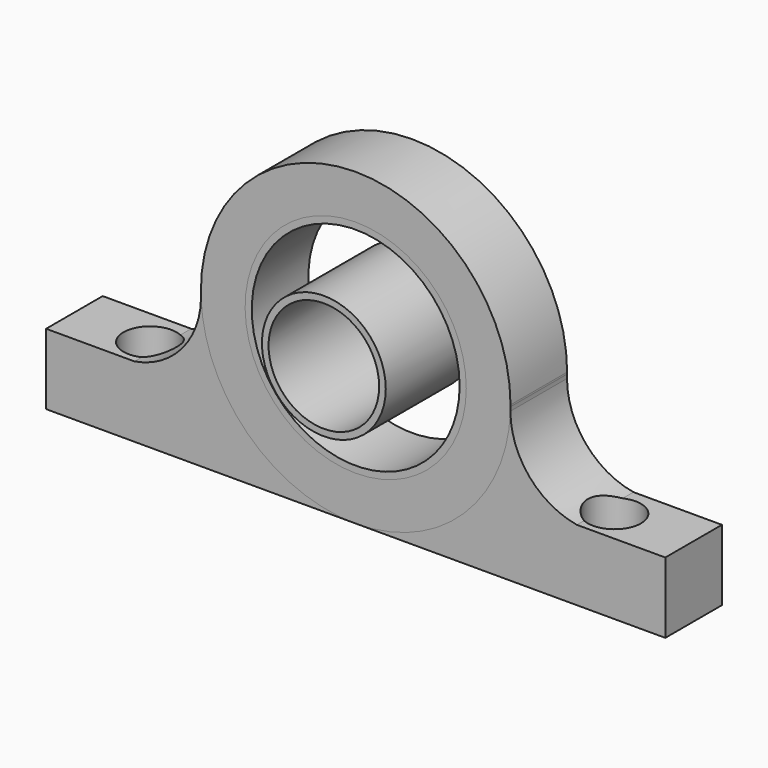
from build123d import *

# Parameters (mm, degrees)
F1_DEPTH = 16
F2_DEPTH = 16
F3_DEPTH = 16
F0_R     = 14
F0_R_2   = 12.5
F4_DEPTH = 25
F5_R     = 6
F6_DEPTH = 70.001


with BuildPart() as f1:
    # F0 (on Front) → F1 (new body)
    with BuildSketch(Plane.XZ):
        with BuildLine():
            ThreePointArc((29.3938769134, 8), (16.7332005307, -3.7408522979), (0, -8))
            Line((0, -8), (70, -8))
            Line((70, -8), (70, 8))
            Line((70, 8), (50, 8))
            Line((50, 8), (29.3938769134, 8))
        make_face()
        with BuildLine():
            ThreePointArc((34.976979378, 25.7307822924), (33.3840822114, 16.4879566733), (29.3938769134, 8))
            Line((29.3938769134, 8), (50, 8))
            ThreePointArc((50, 8), (39.2436746706, 14.1161090146), (34.976979378, 25.7307822924))
        make_face()
    extrude(amount=F1_DEPTH)


with BuildPart() as f1b:
    # F0 (on Front) → F1, piece 2 (new body)
    with BuildSketch(Plane.XZ):
        with BuildLine():
            Line((-70, 8), (-70, -8))
            Line((-70, -8), (0, -8))
            ThreePointArc((0, -8), (-16.7332005307, -3.7408522979), (-29.3938769134, 8))
            Line((-29.3938769134, 8), (-50, 8))
            Line((-50, 8), (-70, 8))
        make_face()
        with BuildLine():
            Line((-50, 8), (-29.3938769134, 8))
            ThreePointArc((-29.3938769134, 8), (-33.3535495136, 16.391478197), (-34.9690553288, 25.5285485367))
            ThreePointArc((-34.9690553288, 25.5285485367), (-39.303522738, 14.0365236535), (-50, 8))
        make_face()
    extrude(amount=F1_DEPTH)


with BuildPart() as f2:
    # F0 (on Front) → F2 (new body)
    with BuildSketch(Plane.XZ):
        with BuildLine():
            ThreePointArc((-29.3938769134, 8), (-16.7332005307, -3.7408522979), (0, -8))
            ThreePointArc((0, -8), (16.7332005307, -3.7408522979), (29.3938769134, 8))
            Line((29.3938769134, 8), (16.2480768093, 8))
            ThreePointArc((16.2480768093, 8), (0, 2), (-16.2480768093, 8))
            Line((-16.2480768093, 8), (-29.3938769134, 8))
        make_face()
        with BuildLine():
            ThreePointArc((-34.9690553288, 25.5285485367), (-33.3535495136, 16.391478197), (-29.3938769134, 8))
            Line((-29.3938769134, 8), (-16.2480768093, 8))
            ThreePointArc((-16.2480768093, 8), (-10.4593995948, 49.7068483087), (25, 27))
            ThreePointArc((25, 27), (22.7068483087, 16.5406004052), (16.2480768093, 8))
            Line((16.2480768093, 8), (29.3938769134, 8))
            ThreePointArc((29.3938769134, 8), (33.3840822114, 16.4879566733), (34.976979378, 25.7307822924))
            ThreePointArc((34.976979378, 25.7307822924), (34.9819582811, 26.1759932133), (34.9979473276, 26.6209447882))
            ThreePointArc((34.9979473276, 26.6209447882), (34.9994868281, 26.8104696152), (35, 27))
            ThreePointArc((35, 27), (-0.0874511362, 61.999890747), (-34.9995629885, 26.8250982735))
            ThreePointArc((-34.9995629885, 26.8250982735), (-34.9726282389, 26.1770982557), (-34.9690553288, 25.5285485367))
        make_face()
    extrude(amount=F2_DEPTH)


with BuildPart() as f3:
    # F0 (on Front) → F3 (new body)
    with BuildSketch(Plane.XZ):
        with BuildLine():
            ThreePointArc((25, 27), (-10.4593995948, 49.7068483087), (-16.2480768093, 8))
            Line((-16.2480768093, 8), (-13.8293166859, 8))
            ThreePointArc((-13.8293166859, 8), (-10.6597621428, 47.9432440434), (23.5, 27))
            ThreePointArc((23.5, 27), (20.9432440434, 16.3402378572), (13.8293166859, 8))
            Line((13.8293166859, 8), (16.2480768093, 8))
            ThreePointArc((16.2480768093, 8), (22.7068483087, 16.5406004052), (25, 27))
        make_face()
        with BuildLine():
            Line((-13.8293166859, 8), (-16.2480768093, 8))
            ThreePointArc((-16.2480768093, 8), (0, 2), (16.2480768093, 8))
            Line((16.2480768093, 8), (13.8293166859, 8))
            ThreePointArc((13.8293166859, 8), (0, 3.5), (-13.8293166859, 8))
        make_face()
    extrude(amount=F3_DEPTH)


with BuildPart() as f4:
    # F0 (on Front) → F4 (new body)
    with BuildSketch(Plane.XZ):
        with Locations((0, 27)):
            Circle(F0_R)
        with Locations((0, 27)):
            Circle(F0_R_2, mode=Mode.SUBTRACT)
    extrude(amount=F4_DEPTH)


with BuildPart() as f6_tool:
    # F5 (on face) → F6 (new body, through all)
    with BuildSketch(Plane(origin=(0, 0, -8), x_dir=(1, 0, 0), z_dir=(0, 0, -1))):
        with Locations((-52.5, 8.5000162944)):
            Circle(F5_R)
        with Locations((52.5, 8.5000162944)):
            Circle(F5_R)
    extrude(amount=-F6_DEPTH)


with BuildPart() as f1_1:
    add(f1.part)

    # F6: cut by f6_tool
    add(f6_tool.part, mode=Mode.SUBTRACT)


with BuildPart() as f1b_1:
    add(f1b.part)

    # F6: cut by f6_tool
    add(f6_tool.part, mode=Mode.SUBTRACT)


solid = Compound([f2.part, f3.part, f4.part, f1_1.part, f1b_1.part])
